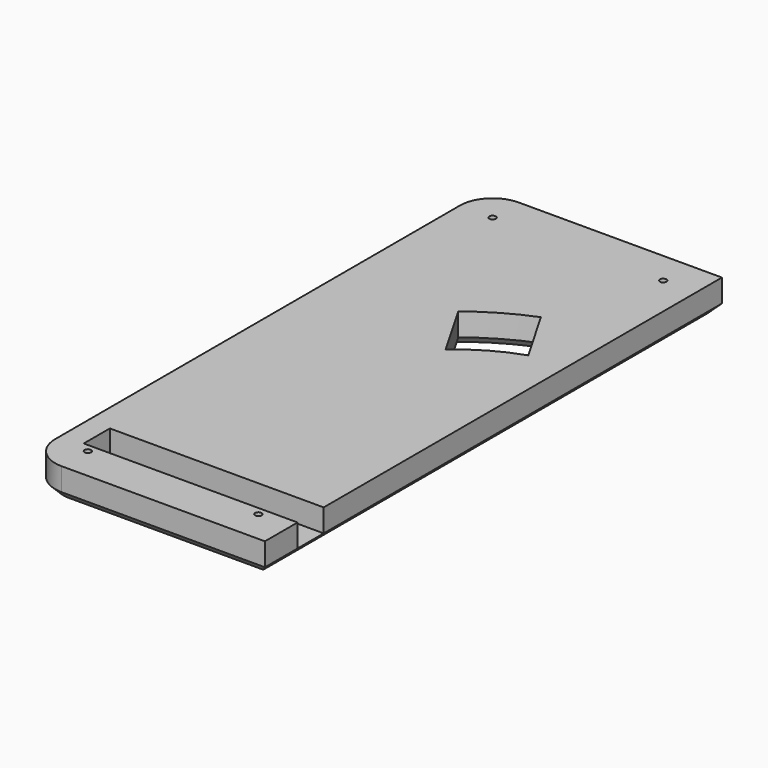
from build123d import *

# Parameters (mm, degrees)
SKETCH024_W             = 144.5
SKETCH024_H             = 350
PAD017_DEPTH            = 19
FILLET007_R             = 20
SKETCH025_R             = 2
POCKET015_DEPTH         = 19.001
CHAMFER005_SIZE         = 5
POCKET020_DEPTH         = 19.001
CHAMFER006_SIZE         = 5
CHAMFER007_SIZE         = 3
SKETCH045_W             = 131
SKETCH045_H             = 20
POCKET029_DEPTH         = 14
BODY013_PLACEMENT_ANGLE = 180


with BuildPart() as part:
    # Sketch024 → Pad017 (new body)
    with BuildSketch(Plane.XY):
        with Locations((307.25, 41.2)):
            Rectangle(SKETCH024_W, SKETCH024_H)
    extrude(amount=PAD017_DEPTH)

    # Fillet007
    fillet007_edges = [part.edges().sort_by_distance(p)[0] for p in [
        (379.5, 216.2, 9.5),
        (379.5, -133.8, 9.5),
    ]]
    fillet(fillet007_edges, radius=FILLET007_R)

    # Sketch025 (on Face5 of Fillet007) → Pocket015 (cut, through all)
    with BuildSketch(Plane.XY.offset(19)):
        with Locations((359.5, 196.2)):
            Circle(SKETCH025_R)
        with Locations((359.5, -113.8)):
            Circle(SKETCH025_R)
        with Locations((255, -113.8)):
            Circle(SKETCH025_R)
        with Locations((255, 196.2)):
            Circle(SKETCH025_R)
    extrude(amount=-POCKET015_DEPTH, mode=Mode.SUBTRACT)

    # Chamfer005
    chamfer005_edges = [part.edges().sort_by_distance(p)[0] for p in [
        (297.25, 216.2, 19),
        (235, 41.2, 19),
    ]]
    chamfer(chamfer005_edges, length=CHAMFER005_SIZE)

    # Sketch030 (on Face9 of Chamfer005) → Pocket020 (cut, through all)
    with BuildSketch(Plane.XY.offset(19)):
        with BuildLine():
            Line((256.961524, 95.358984), (276.961524, 130))
            ThreePointArc((311.60254, 110), (295, 121.243557), (276.961524, 130))
            Line((311.60254, 110), (291.60254, 75.358984))
            ThreePointArc((291.60254, 75.358984), (275.286367, 87.098543), (256.961524, 95.358984))
        make_face()
    extrude(amount=-POCKET020_DEPTH, mode=Mode.SUBTRACT)

    # Chamfer006
    chamfer006_edges = [part.edges().sort_by_distance(p)[0] for p in [
        (295, 121.243557, 19),
        (266.961524, 112.679492, 19),
        (275.286367, 87.098543, 19),
        (301.60254, 92.679492, 19),
    ]]
    chamfer(chamfer006_edges, length=CHAMFER006_SIZE)

    # Chamfer007
    chamfer007_edges = [part.edges().sort_by_distance(p)[0] for p in [
        (253, 196.2, 19),
        (357.5, 196.2, 19),
        (357.5, -113.8, 19),
        (253, -113.8, 19),
    ]]
    chamfer(chamfer007_edges, length=CHAMFER007_SIZE)

    # Sketch045 (on Face30 of Chamfer007) → Pocket029 (cut)
    with BuildSketch(Plane(origin=(0, 0, 0), x_dir=(1, 0, 0), z_dir=(0, 0, -1))):
        with Locations((300.5, 98.8)):
            Rectangle(SKETCH045_W, SKETCH045_H)
    extrude(amount=-POCKET029_DEPTH, mode=Mode.SUBTRACT)


with BuildPart() as part_1:
    # Body013 placement: moved
    add(part.part.moved(Location((0, 0, 10))).rotate(Axis((0, 0, 10), (0, 1, 0)), BODY013_PLACEMENT_ANGLE))


solid = part_1.part
